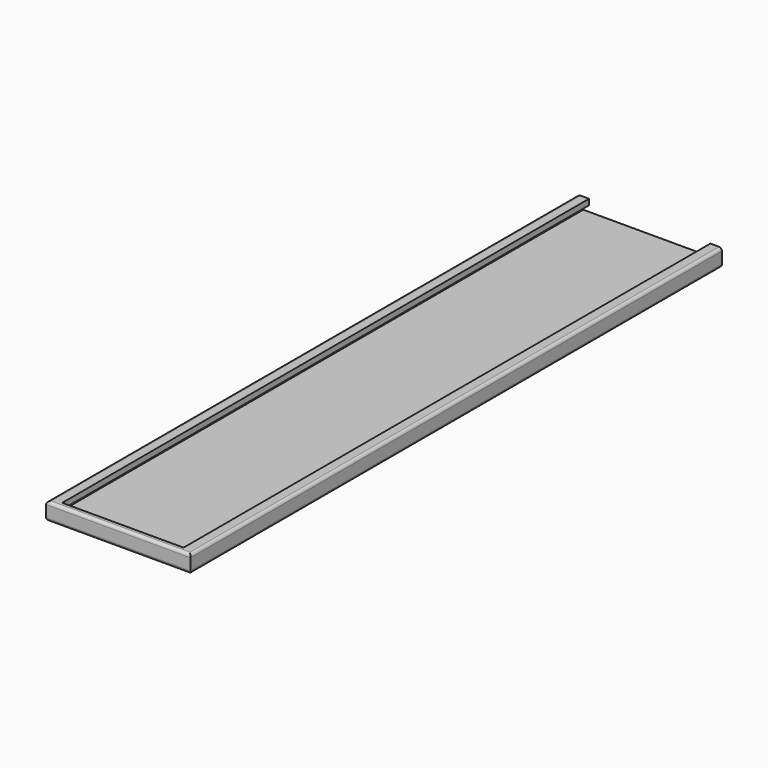
from build123d import *

# Parameters (mm, degrees)
F0_W     = 25
F0_H     = 114
F1_DEPTH = 3
F2_W     = 21
F2_H     = 113
F3_DEPTH = 2
F4_W     = 1
F4_H     = 1
F5_DEPTH = 113
F6_DEPTH = 1
F7_R     = 0.5


with BuildPart() as f1:
    # F0 (on Top) → F1 (new body)
    with BuildSketch(Plane.XY):
        Rectangle(F0_W, F0_H)
    extrude(amount=F1_DEPTH)

    # F2 (on face) → F3 (cut)
    with BuildSketch(Plane.XY.offset(3)):
        with Locations((0, 0.5)):
            Rectangle(F2_W, F2_H)
    extrude(amount=-F3_DEPTH, mode=Mode.SUBTRACT)

    # F4 (on face) → F5 (cut)
    with BuildSketch(Plane(origin=(0, 57, 0), x_dir=(-1, 0, 0), z_dir=(0, 1, 0))):
        with Locations((11, 1.5)):
            Rectangle(F4_W, F4_H)
    extrude(amount=-F5_DEPTH, mode=Mode.SUBTRACT)

    # F6 (add): a face of the model
    f6_faces = [f1.faces().sort_by_distance(p)[0] for p in [
        (0.34375, 57, 0.84375),
    ]]
    extrude(f6_faces, amount=F6_DEPTH)

    # F7
    f7_edges = [f1.edges().sort_by_distance(p)[0] for p in [
        (12.5, 0.5, 0),
        (12.5, 0.5, 3),
        (0, -57, 3),
        (0, -57, 0),
        (-12.5, 0.5, 3),
        (-12.5, 0.5, 0),
    ]]
    fillet(f7_edges, radius=F7_R)


solid = f1.part
